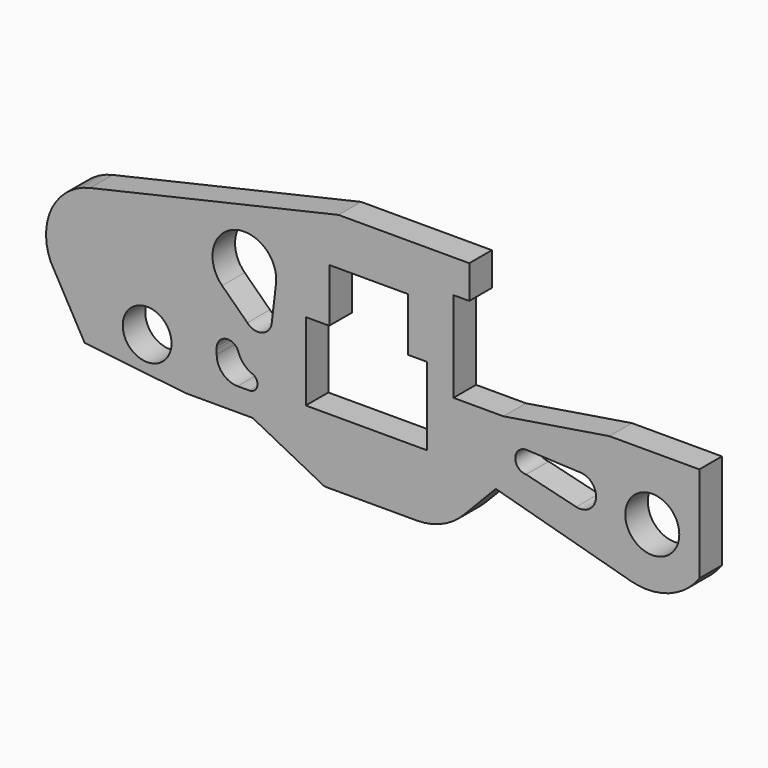
from build123d import *

# Parameters (mm, degrees)
F0_R     = 4.324059
F0_R_2   = 4.785239
F1_DEPTH = 5


with BuildPart() as f1:
    # F0 (on Front) → F1 (new body)
    with BuildSketch(Plane.XZ):
        with BuildLine():
            ThreePointArc((-119.706243, 55.045612), (-126.417939, 49.803324), (-126.699165, 41.291606))
            Line((-126.699165, 41.291606), (-120.677069, 30.575819))
            Line((-120.677069, 30.575819), (-102.787904, 28.538935))
            Line((-102.787904, 28.538935), (-90.920828, 28.538935))
            Line((-90.920828, 28.538935), (-78.168161, 21.985479))
            Line((-78.168161, 21.985479), (-61.873078, 21.985479))
            ThreePointArc((-61.873078, 21.985479), (-57.349565, 22.907907), (-53.548414, 25.527887))
            Line((-53.548414, 25.527887), (-47.814712, 31.486622))
            Line((-47.814712, 31.486622), (-23.969298, 24.907965))
            ThreePointArc((-23.969298, 24.907965), (-17.175112, 25.152645), (-11.747988, 29.247416))
            Line((-11.747988, 29.247416), (-11.747988, 46.25098))
            Line((-11.747988, 46.25098), (-27.688829, 46.25098))
            Line((-27.688829, 46.25098), (-46.463598, 43.239933))
            Line((-46.463598, 43.239933), (-55.319618, 43.239933))
            Line((-55.319618, 43.239933), (-55.319618, 59.269335))
            Line((-55.319618, 59.269335), (-52.514344, 59.269335))
            Line((-52.514344, 59.269335), (-52.514344, 65.15599))
            Line((-52.514344, 65.15599), (-75.683966, 65.15599))
            Line((-75.683966, 65.15599), (-119.706243, 55.045612))
        make_face()
        with Locations((-109.600365, 35.47946)):
            Circle(F0_R, mode=Mode.SUBTRACT)
        with BuildLine():
            ThreePointArc((-97.270344, 37.578847), (-95.572597, 39.346619), (-93.456586, 38.109742))
            ThreePointArc((-93.456586, 38.109742), (-93.419081, 38.005925), (-93.38742, 37.900178))
            ThreePointArc((-93.38742, 37.900178), (-92.493454, 36.437279), (-91.09302, 35.448321))
            ThreePointArc((-91.09302, 35.448321), (-90.334235, 34.931518), (-90.041707, 34.061307))
            ThreePointArc((-90.041707, 34.061307), (-90.474518, 33.03189), (-91.512888, 32.62102))
            Line((-91.512888, 32.62102), (-93.584725, 32.62102))
            ThreePointArc((-93.584725, 32.62102), (-96.190851, 33.700513), (-97.270344, 36.306639))
            Line((-97.270344, 36.306639), (-97.270344, 37.191693))
            ThreePointArc((-97.270344, 37.191693), (-97.279828, 37.38527), (-97.270344, 37.578847))
        make_face(mode=Mode.SUBTRACT)
        with BuildLine():
            ThreePointArc((-32.768975, 38.904663), (-30.839975, 38.028428), (-30.051213, 36.062039))
            ThreePointArc((-30.051213, 36.062039), (-31.140098, 33.823478), (-33.573386, 33.298178))
            Line((-33.573386, 33.298178), (-42.428862, 35.46628))
            ThreePointArc((-42.428862, 35.46628), (-44.365081, 37.402499), (-42.428862, 39.338719))
            ThreePointArc((-42.428862, 39.338719), (-42.341948, 39.336767), (-42.25521, 39.330916))
            Line((-42.25521, 39.330916), (-32.768975, 38.904663))
        make_face(mode=Mode.SUBTRACT)
        with Locations((-20.08787, 34.944989)):
            Circle(F0_R_2, mode=Mode.SUBTRACT)
        Polygon((-77.326678, 47.330998), (-77.326678, 56.809478), (-63.372247, 56.809478), (-63.372247, 47.330998), (-60.002122, 47.330998), (-60.002122, 33.538168), (-81.48668, 33.538168), (-81.48668, 47.330998), align=None, mode=Mode.SUBTRACT)
        with BuildLine():
            ThreePointArc((-96.306447, 47.409216), (-94.578162, 56.668113), (-86.726159, 51.466171))
            ThreePointArc((-86.726159, 51.466171), (-86.735928, 51.134088), (-86.765202, 50.803154))
            Line((-86.765202, 50.803154), (-87.506927, 44.527066))
            ThreePointArc((-87.506927, 44.527066), (-87.515347, 44.443823), (-87.526564, 44.36091))
            ThreePointArc((-87.526564, 44.36091), (-89.276285, 42.352505), (-91.838695, 43.080011))
            Line((-91.838695, 43.080011), (-96.306447, 47.409216))
        make_face(mode=Mode.SUBTRACT)
    extrude(amount=F1_DEPTH)


solid = f1.part
